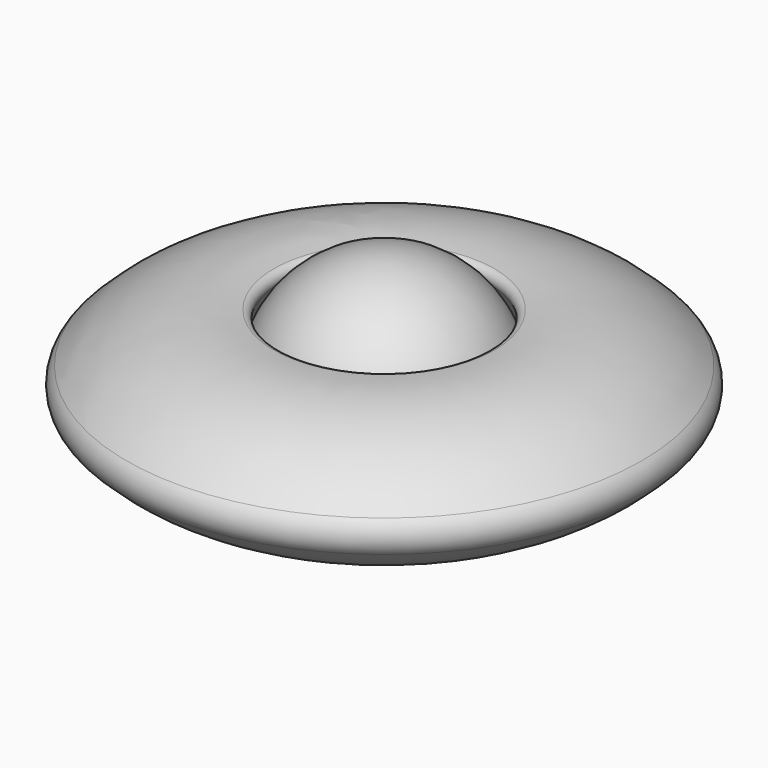
from build123d import *


with BuildPart() as f2:
    # F0 (on Front) + F1 (on Front) → F2 (revolve)
    with BuildSketch(Plane.XZ):
        with BuildLine():
            Line((0, 10), (0, -10))
            ThreePointArc((0, -10), (10, 0), (0, 10))
        make_face()
    with BuildSketch(Plane.XZ):
        with BuildLine():
            ThreePointArc((9.136212, 4.756011), (10.004823, 2.448165), (10.3, 0))
            ThreePointArc((10.3, 0), (10.004823, -2.448165), (9.136212, -4.756011))
            ThreePointArc((9.136212, -4.756011), (9.134217, -5.380582), (9.642382, -5.74371))
            ThreePointArc((9.642382, -5.74371), (16.590665, -5.109345), (22.500301, -1.400267))
            ThreePointArc((22.500301, -1.400267), (23.072277, 0), (22.500301, 1.400267))
            ThreePointArc((22.500301, 1.400267), (16.590665, 5.109345), (9.642382, 5.74371))
            ThreePointArc((9.642382, 5.74371), (9.134217, 5.380582), (9.136212, 4.756011))
        make_face()
    revolve(axis=Axis((0, 0, 1.64239), (0, 0, -1)))


solid = f2.part
